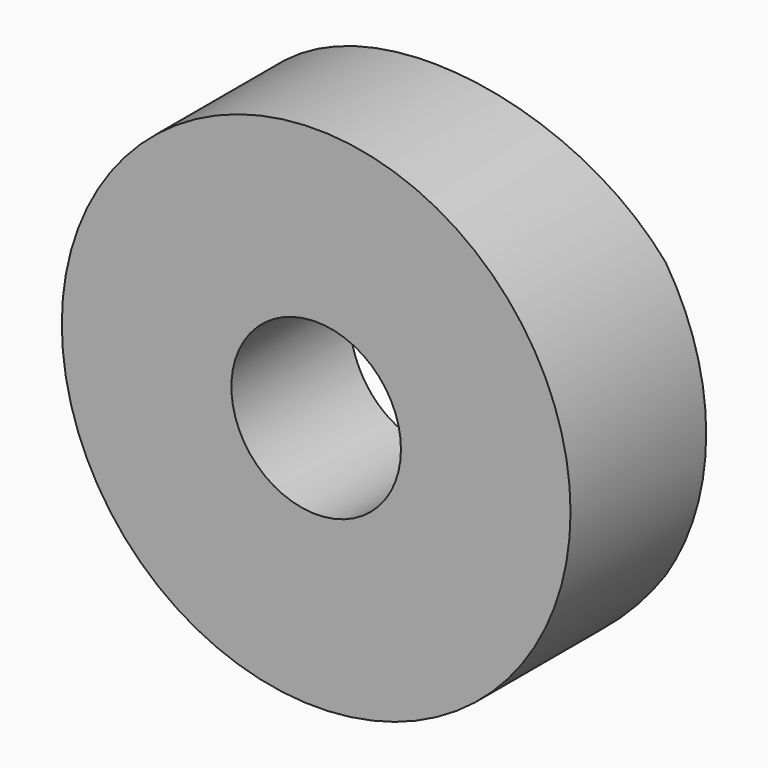
from build123d import *

# Parameters (mm, degrees)
F0_R          = 38.1
F1_DEPTH      = 25.4
F2_R          = 12.7
F3_DEPTH      = 25.401
F5_DEPTH      = 38.101
F5_DEPTH_BACK = 38.101


with BuildPart() as f1:
    # F0 (on Front) → F1 (new body)
    with BuildSketch(Plane.XZ):
        Circle(F0_R)
    extrude(amount=F1_DEPTH)

    # F2 (on face) → F3 (cut, through all)
    with BuildSketch(Plane.XZ.offset(25.4)):
        Circle(F2_R)
    extrude(amount=-F3_DEPTH, mode=Mode.SUBTRACT)

    # F4 (on Top) → F5 (cut, two sides)
    with BuildSketch(Plane.XY) as f5_sk:
        with BuildLine():
            Line((32.0281813408, 0), (-32.0281813408, 0))
            ThreePointArc((-32.0281813408, 0), (0, -3.81), (32.0281813408, 0))
        make_face()
    extrude(amount=-F5_DEPTH, mode=Mode.SUBTRACT)
    extrude(f5_sk.sketch, amount=F5_DEPTH_BACK, mode=Mode.SUBTRACT)


solid = f1.part
